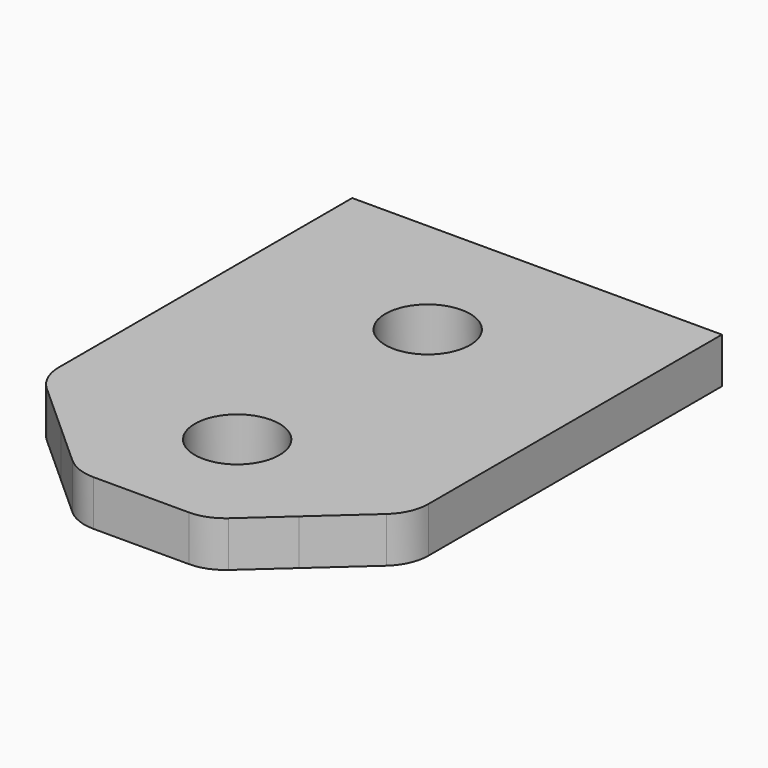
from build123d import *

# Parameters (mm, degrees)
F1_DEPTH = 6.35


with BuildPart() as f1:
    # F0 (on Top) → F1 (new body)
    with BuildSketch(Plane.XY):
        with BuildLine():
            Line((51.562, 69.007182), (25.781, 69.007182))
            Line((25.781, 69.007182), (0, 69.007182))
            Line((0, 69.007182), (0, 17.859384))
            ThreePointArc((0, 17.859384), (0.548986, 15.276606), (2.101021, 13.140414))
            Line((2.101021, 13.140414), (9.166083, 6.779004))
            Line((9.166083, 6.779004), (14.883486, 1.63103))
            ThreePointArc((14.883486, 1.63103), (16.856829, 0.421764), (19.132466, 0))
            Line((19.132466, 0), (32.429534, 0))
            ThreePointArc((32.429534, 0), (34.705171, 0.421764), (36.678514, 1.63103))
            Line((36.678514, 1.63103), (42.395917, 6.779004))
            Line((42.395917, 6.779004), (49.460979, 13.140414))
            ThreePointArc((49.460979, 13.140414), (51.013014, 15.276606), (51.562, 17.859384))
            Line((51.562, 17.859384), (51.562, 69.007182))
        make_face()
        with BuildLine():
            ThreePointArc((25.781, 10.823863), (19.8755, 16.729363), (25.781, 22.634863))
            ThreePointArc((25.781, 22.634863), (31.6865, 16.729363), (25.781, 10.823863))
        make_face(mode=Mode.SUBTRACT)
        with BuildLine():
            ThreePointArc((25.781, 44.040135), (19.8755, 49.945635), (25.781, 55.851135))
            ThreePointArc((25.781, 55.851135), (31.6865, 49.945635), (25.781, 44.040135))
        make_face(mode=Mode.SUBTRACT)
    extrude(amount=F1_DEPTH)


solid = f1.part
